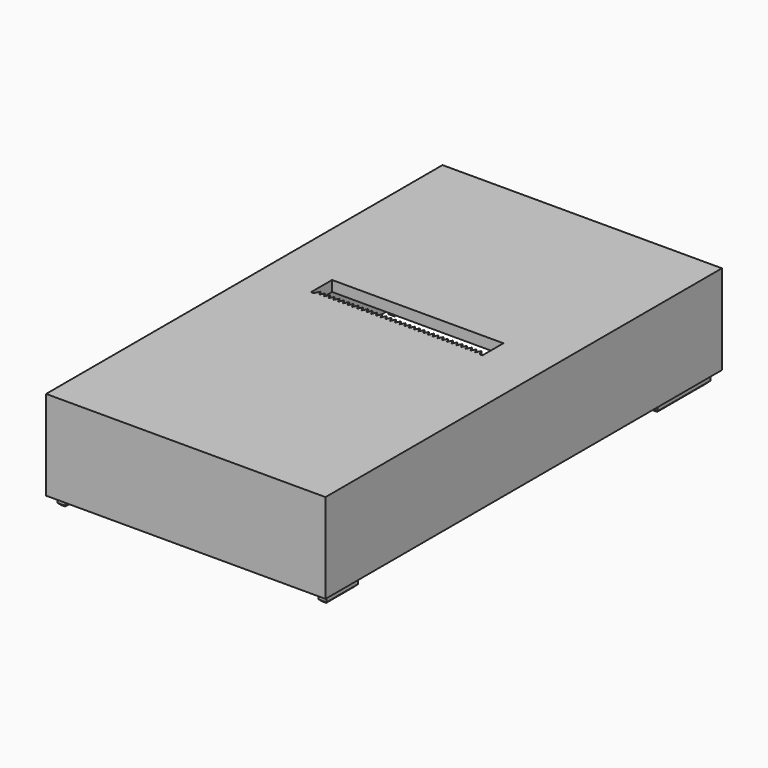
from build123d import *

# Parameters (mm, degrees)
SKETCH016_W         = 106
SKETCH016_H         = 188
SKETCH016_W_2       = 96
SKETCH016_H_2       = 182
PAD010_DEPTH        = 30
SKETCH017_W         = 3
SKETCH017_H         = 15
SKETCH017_H_2       = 25
PAD011_DEPTH        = 3.8
SKETCH018_W         = 3.2
SKETCH018_H         = 21
SKETCH018_W_2       = 3.2000000001
POCKET006_DEPTH     = 16.5
SKETCH019_W         = 106
SKETCH019_H         = 188
SKETCH019_W_2       = 65
SKETCH019_H_2       = 10
PAD012_DEPTH        = 4
CHAMFER001_SIZE     = 0.8
CHAMFER002_SIZE     = 0.8
PAD013_DEPTH        = 4
LINEARPATTERN_COUNT = 35
LINEARPATTERN_PITCH = 1.7941176471


with BuildPart() as part:
    # Sketch016 → Pad010 (new body)
    with BuildSketch(Plane.XY):
        with Locations((53, 94)):
            Rectangle(SKETCH016_W, SKETCH016_H)
        with Locations((53, 94)):
            Rectangle(SKETCH016_W_2, SKETCH016_H_2, mode=Mode.SUBTRACT)
    extrude(amount=PAD010_DEPTH)

    # Sketch017 (on Face9 of Pad010) → Pad011 (join)
    with BuildSketch(Plane(origin=(0, 0, 0), x_dir=(1, 0, 0), z_dir=(0, 0, -1))):
        with Locations((3.5, -10.5)):
            Rectangle(SKETCH017_W, SKETCH017_H)
        with Locations((3.5, -172.5)):
            Rectangle(SKETCH017_W, SKETCH017_H_2)
        with Locations((102.5, -172.5)):
            Rectangle(SKETCH017_W, SKETCH017_H_2)
        with Locations((102.5, -10.5)):
            Rectangle(SKETCH017_W, SKETCH017_H)
    extrude(amount=PAD011_DEPTH)

    # Sketch018 (on Face4 of Pad011) → Pocket006 (cut)
    with BuildSketch(Plane(origin=(0, 0, 0), x_dir=(1, 0, 0), z_dir=(0, 0, -1))):
        with Locations((3.4, -45)):
            Rectangle(SKETCH018_W, SKETCH018_H)
        with Locations((102.6, -45)):
            Rectangle(SKETCH018_W_2, SKETCH018_H)
    extrude(amount=-POCKET006_DEPTH, mode=Mode.SUBTRACT)

    # Sketch019 (on Face5 of Pocket006) → Pad012 (join)
    with BuildSketch(Plane.XY.offset(30)):
        with Locations((53, 94)):
            Rectangle(SKETCH019_W, SKETCH019_H)
        with Locations((52.9999999999, 105)):
            Rectangle(SKETCH019_W_2, SKETCH019_H_2, mode=Mode.SUBTRACT)
    extrude(amount=PAD012_DEPTH)

    # Chamfer001
    chamfer001_edges = [part.edges().sort_by_distance(p)[0] for p in [
        (101, 10.5, -3.8),
        (102.5, 18, -3.8),
        (104, 10.5, -3.8),
        (102.5, 3, -3.8),
        (102.5, 185, -3.8),
        (104, 172.5, -3.8),
        (102.5, 160, -3.8),
        (101, 172.5, -3.8),
        (5, 172.5, -3.8),
        (3.5, 3, -3.8),
        (2, 10.5, -3.8),
        (3.5, 18, -3.8),
        (5, 10.5, -3.8),
    ]]
    chamfer(chamfer001_edges, length=CHAMFER001_SIZE)

    # Chamfer002
    chamfer002_edges = [part.edges().sort_by_distance(p)[0] for p in [
        (102.6, 55.5, 0),
        (102.6, 34.5, 0),
        (3.4, 34.5, 0),
        (3.4, 55.5, 0),
    ]]
    chamfer(chamfer002_edges, length=CHAMFER002_SIZE)

    # Sketch020 (on Face12 of Chamfer002) → Pad013 (join)
    with BuildSketch(Plane(origin=(0, 0, 30), x_dir=(1, 0, 0), z_dir=(0, 0, -1))):
        Polygon((84.4999999999, -100), (83.4999999999, -102), (82.4999999999, -100), align=None)
    pad013 = extrude(amount=-PAD013_DEPTH)

    # LinearPattern: Pad013 ×35
    with Locations(*[(-i * LINEARPATTERN_PITCH, 0, 0) for i in range(1, LINEARPATTERN_COUNT)]):
        add(pad013)


with BuildPart() as part_1:
    # Body003 placement: moved
    add(part.part.moved(Location((0, 0, 40))))


solid = part_1.part
